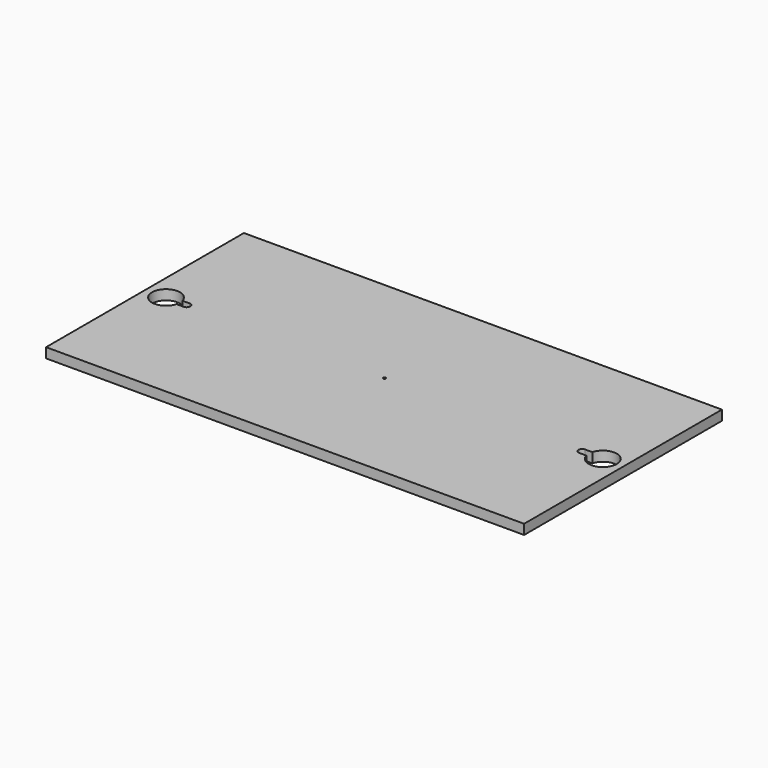
from build123d import *

# Parameters (mm, degrees)
F1_DEPTH = 12


with BuildPart() as f1:
    # F0 (on Top) → F1 (new body)
    with BuildSketch(Plane.XY):
        with BuildLine():
            Line((290, 149.358979), (0, 149.358979))
            Line((0, 149.358979), (0, 1.5))
            ThreePointArc((0, 1.5), (1.06066, 1.06066), (1.5, 0))
            ThreePointArc((1.5, 0), (1.06066, -1.06066), (0, -1.5))
            Line((0, -1.5), (0, -150.641021))
            Line((0, -150.641021), (290, -150.641021))
            Line((290, -150.641021), (290, 149.358979))
        make_face()
        with BuildLine():
            ThreePointArc((240, -4.5), (235.5, 0), (240, 4.5))
            Line((240, 4.5), (248.606404, 4.5))
            ThreePointArc((248.606404, 4.5), (267.270337, 16.847717), (282, 0))
            ThreePointArc((282, 0), (267.270337, -16.847717), (248.606404, -4.5))
            Line((248.606404, -4.5), (240, -4.5))
        make_face(mode=Mode.SUBTRACT)
        with BuildLine():
            Line((0, 1.5), (0, 149.358979))
            Line((0, 149.358979), (-290, 149.358979))
            Line((-290, 149.358979), (-290, -150.641021))
            Line((-290, -150.641021), (0, -150.641021))
            Line((0, -150.641021), (0, -1.5))
            ThreePointArc((0, -1.5), (-1.5, 0), (0, 1.5))
        make_face()
        with BuildLine():
            ThreePointArc((-240, 4.5), (-236.818019, 3.181981), (-235.5, 0))
            ThreePointArc((-235.5, 0), (-236.818019, -3.181981), (-240, -4.5))
            Line((-240, -4.5), (-248.606404, -4.5))
            ThreePointArc((-248.606404, -4.5), (-282, 0), (-248.606404, 4.5))
            Line((-248.606404, 4.5), (-240, 4.5))
        make_face(mode=Mode.SUBTRACT)
    extrude(amount=F1_DEPTH)


solid = f1.part
